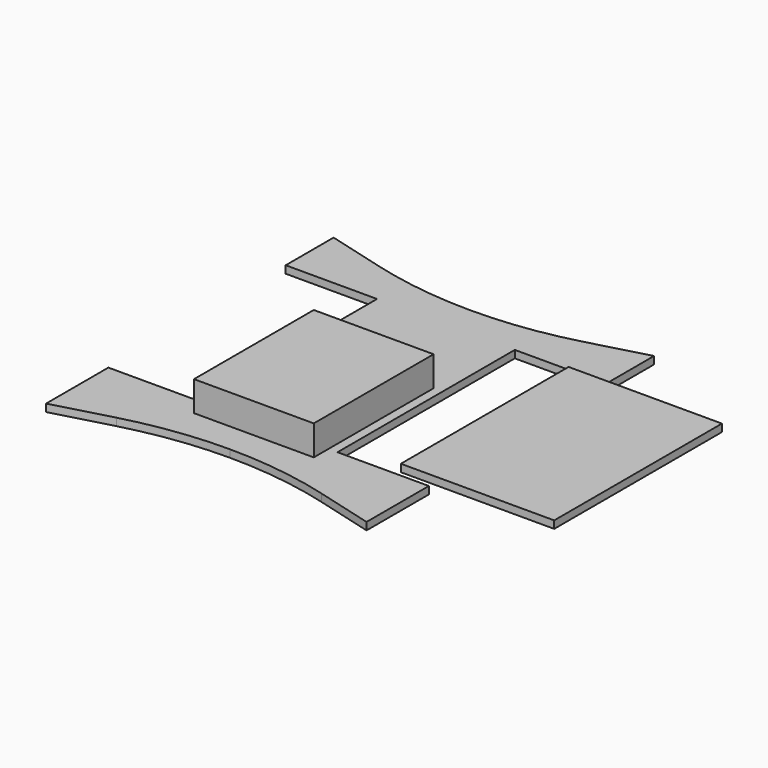
from build123d import *

# Parameters (mm, degrees)
F1_DEPTH = 3.175
F2_W     = 50.8
F2_H     = 63.5
F3_DEPTH = 12.7
F4_W     = 65.024
F4_H     = 88.9
F5_DEPTH = 3.175


with BuildPart() as f1:
    # F0 (on Top) → F1 (new body)
    with BuildSketch(Plane.XY):
        with BuildLine():
            Line((29.21, 0), (-29.21, 0))
            Line((-29.21, 0), (-29.21, -43.18))
            Line((-29.21, -43.18), (-67.945, -43.18))
            Line((-67.945, -43.18), (-67.945, -76.2))
            Line((-67.945, -76.2), (-43.42958, -69.55514))
            ThreePointArc((-43.42958, -69.55514), (-21.906355, -65.225401), (0, -63.773691))
            ThreePointArc((0, -63.773691), (21.906355, -65.225401), (43.42958, -69.55514))
            Line((43.42958, -69.55514), (67.945, -76.2))
            Line((67.945, -76.2), (67.945, -43.18))
            Line((67.945, -43.18), (29.21, -43.18))
            Line((29.21, -43.18), (29.21, 0))
        make_face()
        with BuildLine():
            Line((-43.42958, 69.55514), (-67.945, 76.2))
            Line((-67.945, 76.2), (-67.945, 50.8))
            Line((-67.945, 50.8), (-29.21, 50.8))
            Line((-29.21, 50.8), (-29.21, 40.64))
            Line((-29.21, 40.64), (-29.21, 17.145))
            Line((-29.21, 17.145), (-29.21, 0))
            Line((-29.21, 0), (29.21, 0))
            Line((29.21, 0), (29.21, 17.145))
            Line((29.21, 17.145), (29.21, 40.64))
            Line((29.21, 40.64), (29.21, 50.8))
            Line((29.21, 50.8), (67.945, 50.8))
            Line((67.945, 50.8), (67.945, 76.2))
            Line((67.945, 76.2), (43.42958, 69.55514))
            ThreePointArc((43.42958, 69.55514), (21.906355, 65.225401), (0, 63.773691))
            ThreePointArc((0, 63.773691), (-21.906355, 65.225401), (-43.42958, 69.55514))
        make_face()
    extrude(amount=-F1_DEPTH)


with BuildPart() as f3:
    # F2 (on face) → F3 (new body)
    with BuildSketch(Plane.XY):
        with Locations((0, -19.244497)):
            Rectangle(F2_W, F2_H)
    extrude(amount=F3_DEPTH)


with BuildPart() as f5:
    # F4 (on Top) → F5 (new body)
    with BuildSketch(Plane.XY):
        with Locations((87.067511, 3.163923)):
            Rectangle(F4_W, F4_H)
    extrude(amount=F5_DEPTH)


solid = Compound([f1.part, f3.part, f5.part])
